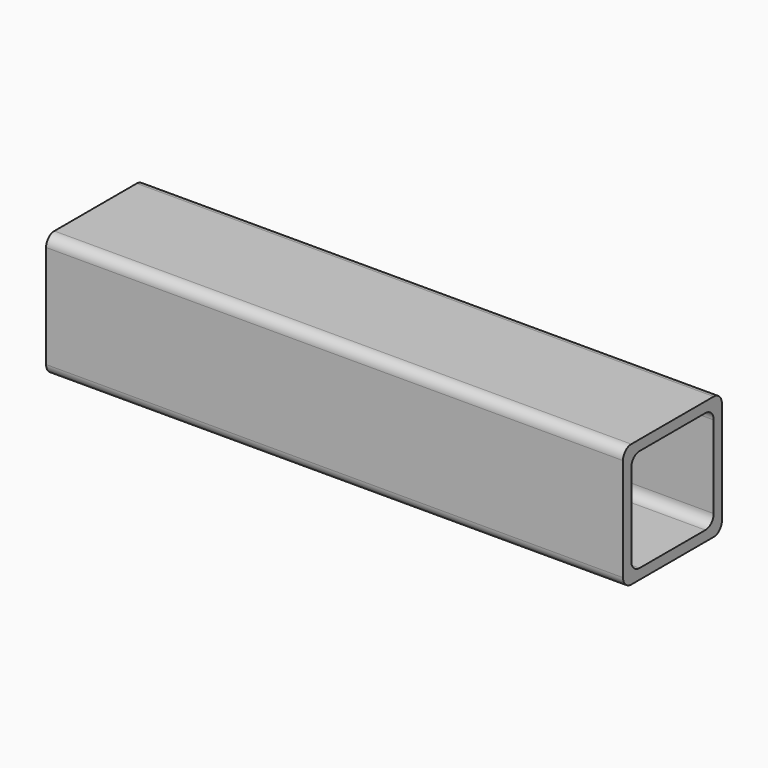
from build123d import *

# Parameters (mm, degrees)
F1_DEPTH = 177.8


with BuildPart() as f1:
    # F0 (on Right) → F1 (new body)
    with BuildSketch(Plane.YZ):
        with BuildLine():
            ThreePointArc((19.05, 15.875), (18.120064, 18.120064), (15.875, 19.05))
            Line((15.875, 19.05), (-15.875, 19.05))
            ThreePointArc((-15.875, 19.05), (-18.120064, 18.120064), (-19.05, 15.875))
            Line((-19.05, 15.875), (-19.05, -15.875))
            ThreePointArc((-19.05, -15.875), (-18.120064, -18.120064), (-15.875, -19.05))
            Line((-15.875, -19.05), (15.875, -19.05))
            ThreePointArc((15.875, -19.05), (18.120064, -18.120064), (19.05, -15.875))
            Line((19.05, -15.875), (19.05, 15.875))
        make_face()
        with BuildLine():
            Line((-12.7, 15.875), (12.7, 15.875))
            ThreePointArc((12.7, 15.875), (14.945064, 14.945064), (15.875, 12.7))
            Line((15.875, 12.7), (15.875, -12.7))
            ThreePointArc((15.875, -12.7), (14.945064, -14.945064), (12.7, -15.875))
            Line((12.7, -15.875), (-12.7, -15.875))
            ThreePointArc((-12.7, -15.875), (-14.945064, -14.945064), (-15.875, -12.7))
            Line((-15.875, -12.7), (-15.875, 12.7))
            ThreePointArc((-15.875, 12.7), (-14.945064, 14.945064), (-12.7, 15.875))
        make_face(mode=Mode.SUBTRACT)
    extrude(amount=F1_DEPTH)


solid = f1.part
